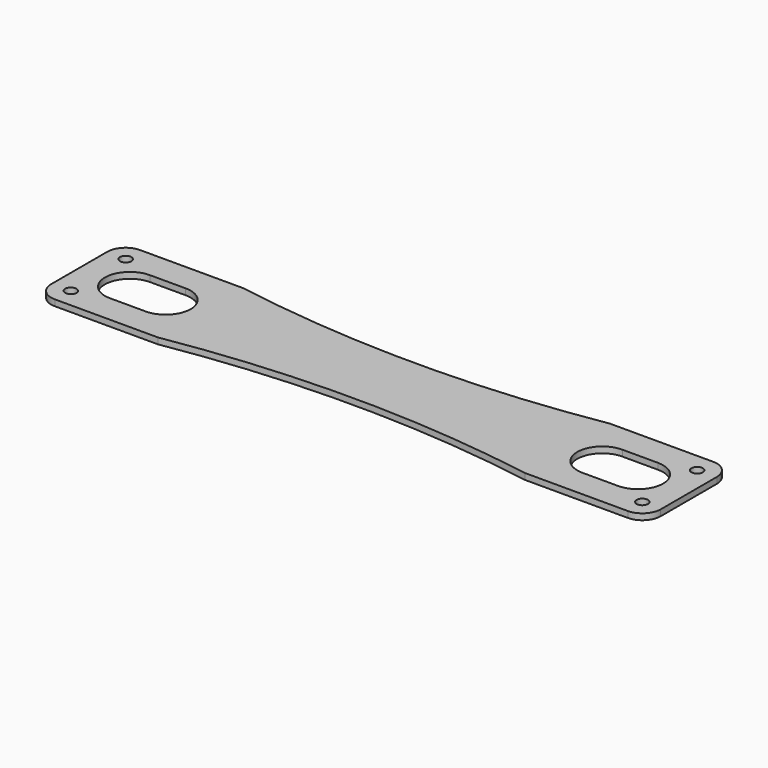
from build123d import *

# Parameters (mm, degrees)
SKETCH_W     = 254
SKETCH_H     = 44.45
SKETCH_R     = 2.3622
PAD_DEPTH    = 2.54
FILLET_R     = 7.62
SKETCH001_R  = 463.55
POCKET_DEPTH = 5.00126


with BuildPart() as part:
    # Sketch → Pad (new body)
    with BuildSketch(Plane.XY):
        with Locations((127, -22.225)):
            Rectangle(SKETCH_W, SKETCH_H)
        with Locations((7.9375, -7.9375)):
            Circle(SKETCH_R, mode=Mode.SUBTRACT)
        with Locations((7.9375, -36.5125)):
            Circle(SKETCH_R, mode=Mode.SUBTRACT)
        with Locations((246.0625, -7.9375)):
            Circle(SKETCH_R, mode=Mode.SUBTRACT)
        with Locations((246.0625, -36.5125)):
            Circle(SKETCH_R, mode=Mode.SUBTRACT)
        with BuildLine():
            ThreePointArc((36.0299, -32.639), (46.4439, -22.225), (36.0299, -11.811))
            Line((36.0299, -11.811), (21.129625, -11.811))
            ThreePointArc((21.129625, -11.811), (10.715625, -22.225), (21.129625, -32.639))
            Line((36.0299, -32.639), (21.129625, -32.639))
        make_face(mode=Mode.SUBTRACT)
        with BuildLine():
            ThreePointArc((232.870375, -32.639), (243.284375, -22.225), (232.870375, -11.811))
            Line((232.870375, -11.811), (217.9701, -11.811))
            ThreePointArc((217.9701, -11.811), (207.5561, -22.225), (217.9701, -32.639))
            Line((232.870375, -32.639), (217.9701, -32.639))
        make_face(mode=Mode.SUBTRACT)
    extrude(amount=PAD_DEPTH)

    # Fillet
    fillet_edges = [part.edges().sort_by_distance(p)[0] for p in [
        (0, -44.45, 1.27),
        (0, 0, 1.27),
        (254, -44.45, 1.27),
        (254, 0, 1.27),
    ]]
    fillet(fillet_edges, radius=FILLET_R)

    # Sketch001 → Pocket (cut)
    with BuildSketch(Plane.XY):
        with Locations((127, -501.65)):
            Circle(SKETCH001_R)
        with Locations((127, 457.2)):
            Circle(SKETCH001_R)
    extrude(amount=POCKET_DEPTH, mode=Mode.SUBTRACT)


solid = part.part
